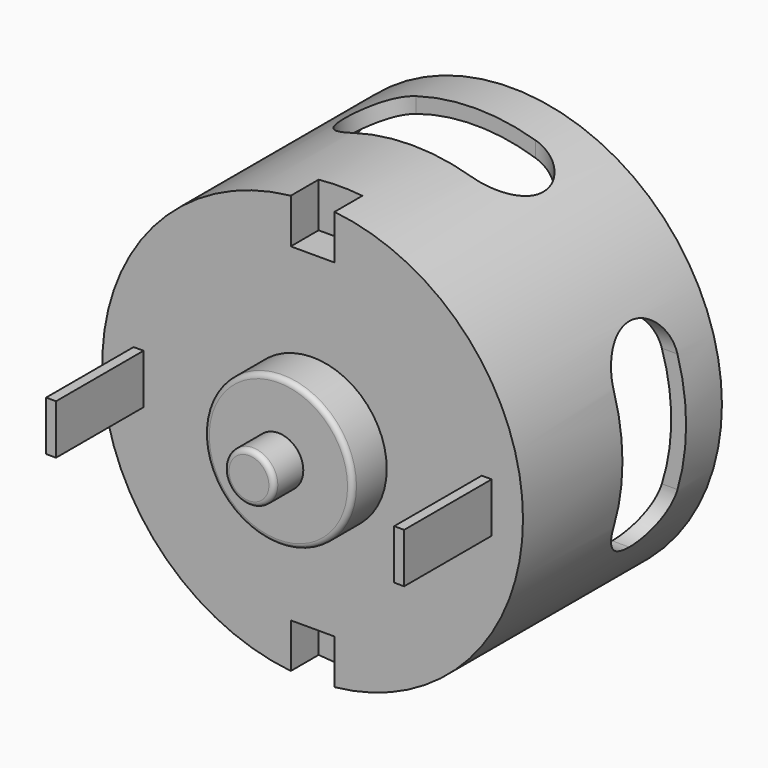
from build123d import *

# Parameters (mm, degrees)
F0_W      = 1
F0_H      = 5
F1_DEPTH  = 11
F0_R      = 21.15
F2_DEPTH  = 25
F3_R      = 19.65
F4_DEPTH  = 20
F6_DEPTH  = 22.5
F8_DEPTH  = 22.5
F10_DEPTH = 3.5
F11_R     = 7.45
F11_R_2   = 2.5
F12_DEPTH = 4.3
F13_DEPTH = 8
F14_R     = 0.5


with BuildPart() as f1:
    # F0 (on Front) → F1 (new body)
    with BuildSketch(Plane.XZ):
        with Locations((17.5, 0)):
            Rectangle(F0_W, F0_H)
    extrude(amount=F1_DEPTH)


with BuildPart() as f1b:
    # F0 (on Front) → F1, piece 2 (new body)
    with BuildSketch(Plane.XZ):
        with Locations((-17.5, 0)):
            Rectangle(F0_W, F0_H)
    extrude(amount=F1_DEPTH)


with BuildPart() as f2:
    # F0 (on Front) → F2 (new body)
    with BuildSketch(Plane.XZ):
        Circle(F0_R)
        with Locations((-17.5, 0)):
            Rectangle(F0_W, F0_H, mode=Mode.SUBTRACT)
        with Locations((17.5, 0)):
            Rectangle(F0_W, F0_H, mode=Mode.SUBTRACT)
        with Locations((-17.5, 0)):
            Rectangle(F0_W, F0_H)
        with Locations((17.5, 0)):
            Rectangle(F0_W, F0_H)
    extrude(amount=-F2_DEPTH)

    # F3 (on face) → F4 (cut)
    with BuildSketch(Plane(origin=(0, 25, 0), x_dir=(-1, 0, 0), z_dir=(0, 1, 0))):
        Circle(F3_R)
    extrude(amount=-F4_DEPTH, mode=Mode.SUBTRACT)

    # F5 (on Right) → F6 (cut, symmetric)
    with BuildSketch(Plane.YZ):
        with BuildLine():
            ThreePointArc((20.5, 6), (19.3284271247, 8.8284271247), (16.5, 10))
            ThreePointArc((16.5, 10), (13.6715728753, 8.8284271247), (12.5, 6))
            Line((12.5, 6), (12.5, -6))
            ThreePointArc((12.5, -6), (13.6715728753, -8.8284271247), (16.5, -10))
            ThreePointArc((16.5, -10), (19.3284271247, -8.8284271247), (20.5, -6))
            Line((20.5, -6), (20.5, 6))
        make_face()
    extrude(amount=F6_DEPTH, both=True, mode=Mode.SUBTRACT)

    # F7 (on Top) → F8 (cut, symmetric)
    with BuildSketch(Plane.XY):
        with BuildLine():
            Line((6, 20.5), (-6, 20.5))
            ThreePointArc((-6, 20.5), (-8.8284271247, 19.3284271247), (-10, 16.5))
            ThreePointArc((-10, 16.5), (-8.8284271247, 13.6715728753), (-6, 12.5))
            Line((-6, 12.5), (6, 12.5))
            ThreePointArc((6, 12.5), (8.8284271247, 13.6715728753), (10, 16.5))
            ThreePointArc((10, 16.5), (8.8284271247, 19.3284271247), (6, 20.5))
        make_face()
    extrude(amount=F8_DEPTH, both=True, mode=Mode.SUBTRACT)

    # F9 (on face) → F10 (cut)
    with BuildSketch(Plane.XZ):
        with BuildLine():
            Line((2.2, 16.55), (2.2, 21.035268004))
            ThreePointArc((2.2, 21.035268004), (0, 21.15), (-2.2, 21.035268004))
            Line((-2.2, 21.035268004), (-2.2, 16.55))
            Line((-2.2, 16.55), (2.2, 16.55))
        make_face()
        with BuildLine():
            ThreePointArc((-2.2, -21.035268004), (0, -21.15), (2.2, -21.035268004))
            Line((2.2, -21.035268004), (2.2, -16.55))
            Line((2.2, -16.55), (-2.2, -16.55))
            Line((-2.2, -16.55), (-2.2, -21.035268004))
        make_face()
    extrude(amount=-F10_DEPTH, mode=Mode.SUBTRACT)

    # F11 (on face) → F12 (join)
    with BuildSketch(Plane.XZ):
        Circle(F11_R)
        Circle(F11_R_2, mode=Mode.SUBTRACT)
    extrude(amount=F12_DEPTH)

    # F13 (add): a face of the model
    f13_faces = [f2.faces().sort_by_distance(p)[0] for p in [
        (0, 0, 0),
    ]]
    extrude(f13_faces, amount=F13_DEPTH)

    # F14
    f14_edges = [f2.edges().sort_by_distance(p)[0] for p in [
        (-7.45, -4.3, 0),
        (-2.5, -8, 0),
    ]]
    fillet(f14_edges, radius=F14_R)


solid = Compound([f1.part, f1b.part, f2.part])
